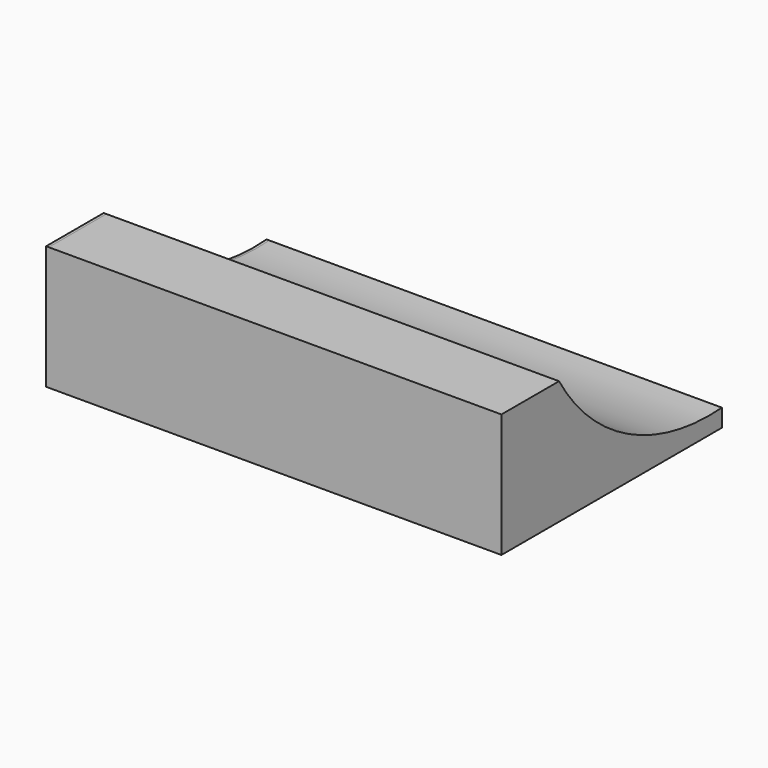
from build123d import *

# Parameters (mm, degrees)
F1_DEPTH = 25.4
F2_DEPTH = 4254.228115


with BuildPart() as f1:
    # F0 (on Right) → F1 (new body)
    with BuildSketch(Plane.YZ):
        with BuildLine():
            Line((676.810205, 1162.974834), (0, 1162.974834))
            Line((0, 1162.974834), (0, 0))
            Line((0, 0), (2590.340853, 0))
            Line((2590.340853, 0), (2590.340853, 166.517735))
            ThreePointArc((2590.340853, 166.517735), (1492.710981, 394.239276), (676.810205, 1162.974834))
        make_face()
    extrude(amount=F1_DEPTH)

    # F1_face (on face) → F2 (join)
    with BuildSketch(Plane(origin=(25.4, 828.989862, 441.251245), x_dir=(0, 1, 0), z_dir=(1, 0, 0))):
        with BuildLine():
            Line((-152.179657, 721.72359), (-828.989862, 721.72359))
            Line((-828.989862, 721.72359), (-828.989862, -441.251245))
            Line((-828.989862, -441.251245), (1761.350991, -441.251245))
            Line((1761.350991, -441.251245), (1761.350991, -274.73351))
            ThreePointArc((1761.350991, -274.73351), (663.72112, -47.011969), (-152.179657, 721.72359))
        make_face()
    extrude(amount=F2_DEPTH)


solid = f1.part
